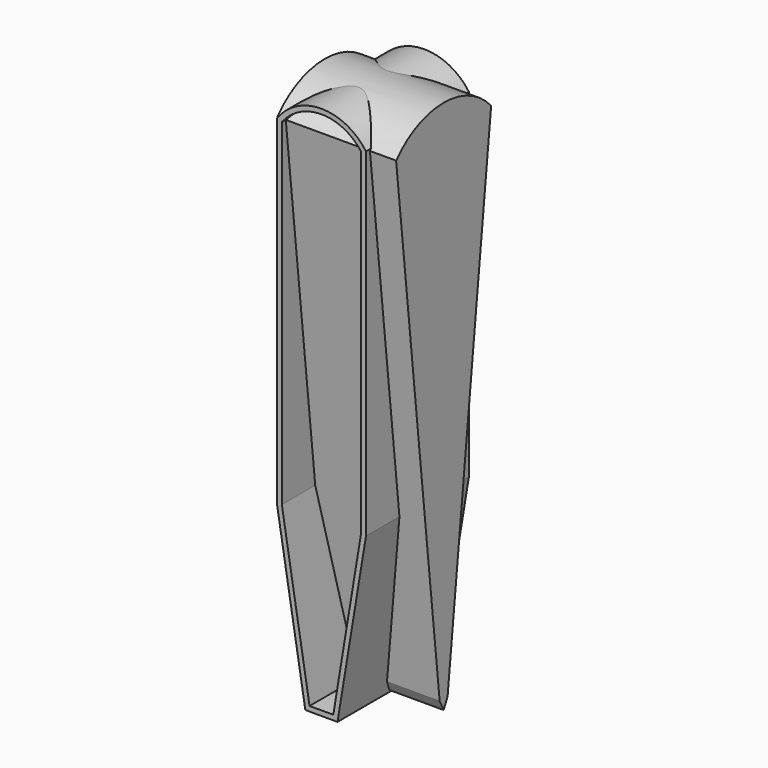
from build123d import *

# Parameters (mm, degrees)
F2_DEPTH = 76.2
F3_DEPTH = 41.275


with BuildPart() as f2:
    # F1 (on Right) → F2 (new body)
    with BuildSketch(Plane.YZ):
        Polygon((-38.0939699973, 0.2813866025), (-3.175, -319.0764911919), (0, -325.4264911919), (3.175, -319.0764911919), (38.0939699973, 0.2813866025), align=None)
        with BuildLine():
            ThreePointArc((38.0939699973, 0.2813866025), (0, 17.4735088081), (-38.0939699973, 0.2813866025))
            Line((-38.0939699973, 0.2813866025), (38.0939699973, 0.2813866025))
        make_face()
    extrude(amount=F2_DEPTH)

    # F0 (on Front) → F3 (join, symmetric)
    with BuildSketch(Plane.XZ):
        with BuildLine():
            Line((59.4184325825, -215.8783343432), (59.4184325825, 1.3118497446))
            ThreePointArc((59.4184325825, 1.3118497446), (30.8434325825, 16.1563866025), (2.2684325825, 1.3118497446))
            Line((2.2684325825, 1.3118497446), (2.2684325825, -215.8783343432))
            Line((2.2684325825, -215.8783343432), (20.5285961914, -326.7436133975))
            Line((20.5285961914, -326.7436133975), (41.1582689735, -326.7436133975))
            Line((41.1582689735, -326.7436133975), (59.4184325825, -215.8783343432))
        make_face()
        with BuildLine():
            ThreePointArc((5.4434325825, 0.2813866025), (30.8434325825, 12.9813866025), (56.2434325825, 0.2813866025))
            Line((56.2434325825, 0.2813866025), (56.2434325825, -215.6186133975))
            Line((56.2434325825, -215.6186133975), (38.4634325825, -323.5686133975))
            Line((38.4634325825, -323.5686133975), (23.2234325825, -323.5686133975))
            Line((23.2234325825, -323.5686133975), (5.4434325825, -215.6186133975))
            Line((5.4434325825, -215.6186133975), (5.4434325825, 0.2813866025))
        make_face(mode=Mode.SUBTRACT)
    extrude(amount=F3_DEPTH, both=True)


solid = f2.part
